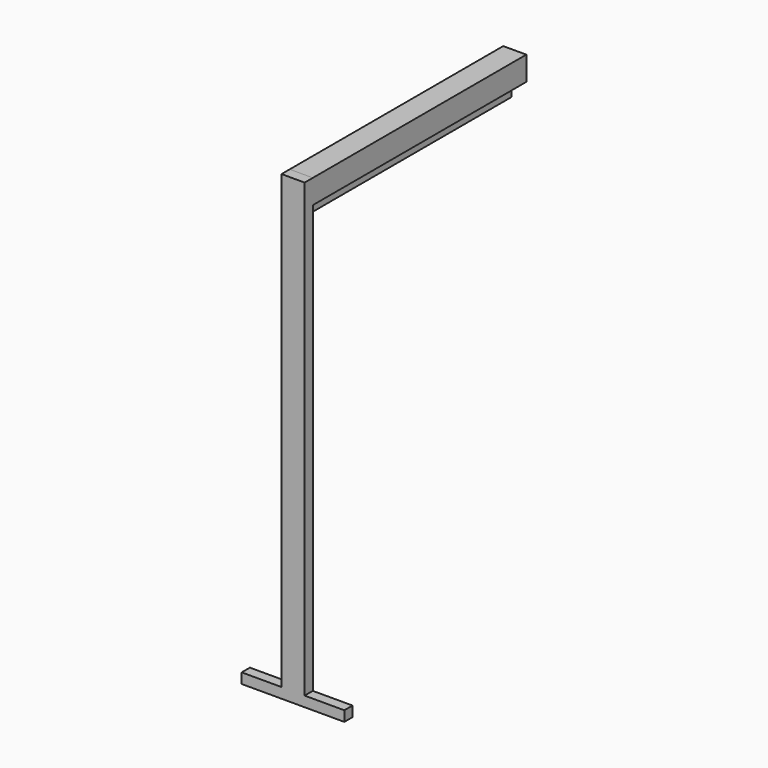
from build123d import *

# Parameters (mm, degrees)
F0_W      = 254
F0_H      = 25.4
F1_DEPTH  = 25.4
F2_W      = 57.206167
F2_H      = 25.4
F3_DEPTH  = 1117.6
F4_W      = 57.206167
F4_H      = 59.412077
F5_DEPTH  = 660.4
F6_R      = 9.525
F7_DEPTH  = 12.7
F8_W      = 25.4
F8_H      = 635
F9_DEPTH  = 15.24
F10_R     = 7.616126
F11_DEPTH = 5.08


with BuildPart() as f1:
    # F0 (on Front) → F1 (new body)
    with BuildSketch(Plane.XZ):
        Rectangle(F0_W, F0_H)
    extrude(amount=F1_DEPTH)

    # F2 (on face) → F3 (join)
    with BuildSketch(Plane.XY.offset(12.7)):
        with Locations((0.196584, -12.7)):
            Rectangle(F2_W, F2_H)
    extrude(amount=F3_DEPTH)

    # F4 (on face) → F5 (join)
    with BuildSketch(Plane(origin=(0, 0, 0), x_dir=(-1, 0, 0), z_dir=(0, 1, 0))):
        with Locations((-0.196584, 1100.593961)):
            Rectangle(F4_W, F4_H)
    extrude(amount=F5_DEPTH)

    # F6 (on face) → F7 (join)
    with BuildSketch(Plane(origin=(0, 0, 1070.887923), x_dir=(1, 0, 0), z_dir=(0, 0, -1))):
        with Locations((0, -43.151151)):
            Circle(F6_R)
        with Locations((0, -170.151151)):
            Circle(F6_R)
        with Locations((0, -297.151151)):
            Circle(F6_R)
        with Locations((0, -424.151151)):
            Circle(F6_R)
        with Locations((0, -551.151151)):
            Circle(F6_R)
    extrude(amount=F7_DEPTH)

    # F8 (on face) → F9 (join)
    with BuildSketch(Plane(origin=(0, 0, 1058.187923), x_dir=(1, 0, 0), z_dir=(0, 0, -1))):
        with Locations((-0.123309, -317.5)):
            Rectangle(F8_W, F8_H)
    extrude(amount=F9_DEPTH)

    # F10 (on face) → F11 (cut)
    with BuildSketch(Plane(origin=(0, 0, 1042.947923), x_dir=(1, 0, 0), z_dir=(0, 0, -1))):
        with Locations((0, -44.583388)):
            Circle(F10_R)
        with Locations((0, -171.583388)):
            Circle(F10_R)
        with Locations((0, -298.583388)):
            Circle(F10_R)
        with Locations((0, -425.583388)):
            Circle(F10_R)
        with Locations((0, -552.583388)):
            Circle(F10_R)
    extrude(amount=-F11_DEPTH, mode=Mode.SUBTRACT)


solid = f1.part
